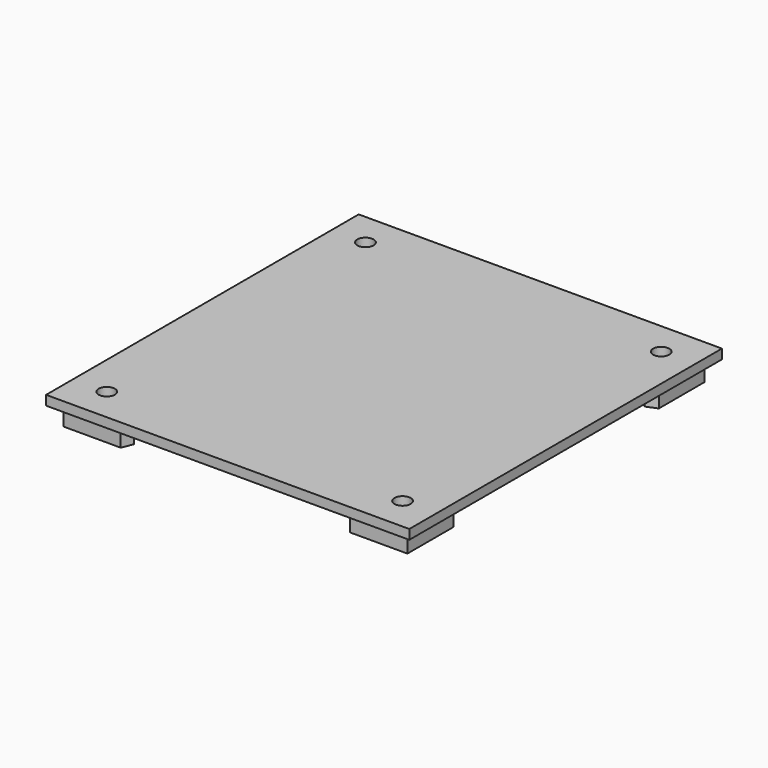
from build123d import *

# Parameters (mm, degrees)
F0_W     = 60.325
F0_H     = 64.897
F1_DEPTH = 1.5875
F3_DEPTH = 3.175
F5_DEPTH = 3.175
F7_D     = 2.7051
F8_SIZE  = 2.54


with BuildPart() as f1:
    # F0 (on Top) → F1 (new body)
    with BuildSketch(Plane.XY):
        with Locations((30.1625, 32.4485)):
            Rectangle(F0_W, F0_H)
    extrude(amount=F1_DEPTH)

    # F2 (on face) → F3 (join)
    with BuildSketch(Plane(origin=(0, 0, 0), x_dir=(1, 0, 0), z_dir=(0, 0, -1))):
        Polygon((58.7375, -63.3095), (58.7375, -51.2445), (46.6725, -63.3095), align=None)
        Polygon((58.7375, -1.5875), (46.6725, -1.5875), (58.7375, -13.6525), align=None)
    extrude(amount=F3_DEPTH)

    # F4 (on face) → F5 (join)
    with BuildSketch(Plane(origin=(0, 0, 0), x_dir=(1, 0, 0), z_dir=(0, 0, -1))):
        Polygon((13.6525, -1.5875), (1.5875, -1.5875), (1.5875, -13.6525), align=None)
        Polygon((1.5875, -51.2445), (1.5875, -63.3095), (13.6525, -63.3095), align=None)
    extrude(amount=F5_DEPTH)

    # F7 (through all)
    with Locations(Plane.XY.offset(1.5875)):
        with Locations((54.7243, 59.2963), (54.7243, 5.6007), (5.6007, 5.6007), (5.6007, 59.2963)):
            Hole(F7_D / 2)

    # F8
    f8_edges = [f1.edges().sort_by_distance(p)[0] for p in [
        (46.6725, 1.5875, -1.5875),
        (58.7375, 13.6525, -1.5875),
        (58.7375, 51.2445, -1.5875),
        (46.6725, 63.3095, -1.5875),
        (13.6525, 1.5875, -1.5875),
        (1.5875, 13.6525, -1.5875),
        (1.5875, 51.2445, -1.5875),
        (13.6525, 63.3095, -1.5875),
    ]]
    chamfer(f8_edges, length=F8_SIZE)


solid = f1.part
